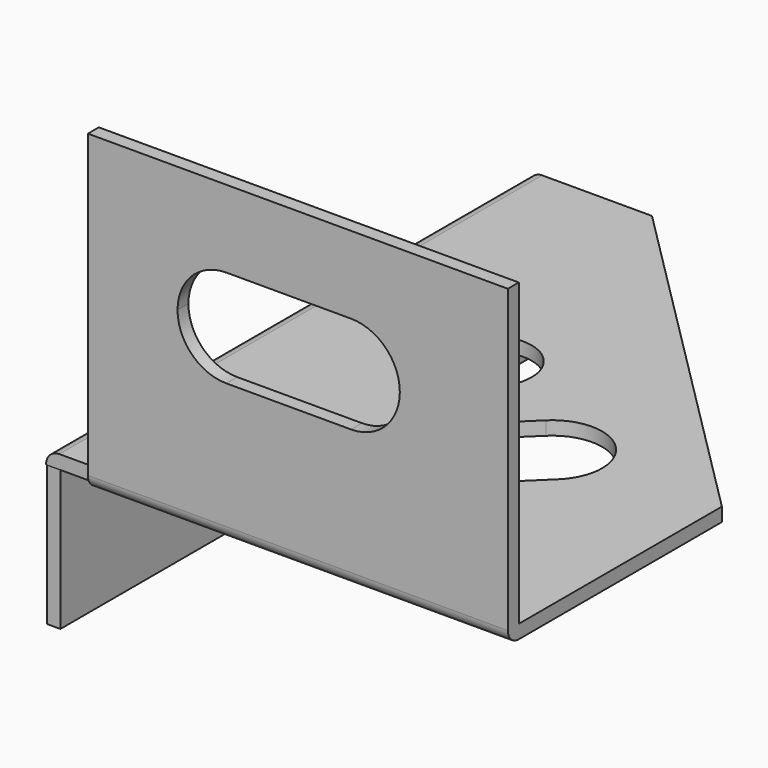
from build123d import *

# Parameters (mm, degrees)
F0_R      = 4.925
F1_DEPTH  = 1.55
F2_W      = 1.55
F2_H      = 68.6
F3_DEPTH  = 16
F4_W      = 47.8
F4_H      = 1.55
F5_DEPTH  = 1.55
F6_W      = 47.8
F6_H      = 1.55
F7_DEPTH  = 34.2
F8_R      = 1.5
F10_DEPTH = 1.551


with BuildPart() as f1:
    # F0 (on Top) → F1 (new body)
    with BuildSketch(Plane.XY):
        Polygon((-51.3558513849, 10.4234758295), (-51.3558513849, -58.2765241705), (2.4441486151, -58.2765241705), (2.4441486151, -29.3765241705), (-37.3558513849, 10.4234758295), align=None)
        with BuildLine():
            ThreePointArc((-27.6816260073, -49.4227633754), (-35.7418681063, -49.3109720316), (-35.6300767624, -41.2507299325))
            Line((-35.6300767624, -41.2507299325), (-20.1462239232, -26.190507449))
            ThreePointArc((-20.1462239232, -26.190507449), (-13.9542389387, -25.0256630672), (-10.4719985456, -30.2765241705))
            ThreePointArc((-10.4719985456, -30.2765241705), (-10.9211374423, -32.4942837773), (-12.197773168, -34.3625408919))
            Line((-12.197773168, -34.3625408919), (-27.6816260073, -49.4227633754))
        make_face(mode=Mode.SUBTRACT)
        with Locations((-31.2308513849, -20.5015241705)):
            Circle(F0_R, mode=Mode.SUBTRACT)
    extrude(amount=F1_DEPTH)

    # F2 (on face) → F3 (join)
    with BuildSketch(Plane(origin=(0, 0, 0), x_dir=(1, 0, 0), z_dir=(0, 0, -1))):
        with Locations((-50.5808513849, 23.8765241705)):
            Rectangle(F2_W, F2_H)
    extrude(amount=F3_DEPTH)

    # F4 (on face) → F5 (join)
    with BuildSketch(Plane.XY.offset(1.55)):
        with Locations((-21.4558513849, -59.0515241705)):
            Rectangle(F4_W, F4_H)
    extrude(amount=-F5_DEPTH)

    # F6 (on face) → F7 (join)
    with BuildSketch(Plane.XY.offset(1.55)):
        with Locations((-21.4558513849, -59.0515241705)):
            Rectangle(F6_W, F6_H)
    extrude(amount=F7_DEPTH)

    # F8
    f8_edges = [f1.edges().sort_by_distance(p)[0] for p in [
        (-21.455851, -59.826524, 0),
        (-51.355851, -23.926524, 1.55),
    ]]
    fillet(f8_edges, radius=F8_R)

    # F9 (on face) → F10 (cut, through all)
    with BuildSketch(Plane(origin=(0, -58.2765241705, 0), x_dir=(-1, 0, 0), z_dir=(0, 1, 0))):
        with BuildLine():
            ThreePointArc((15.4058513849, 15.85), (19.3302940204, 17.4755573644), (20.9558513849, 21.4))
            ThreePointArc((20.9558513849, 21.4), (19.3302940204, 25.3244426356), (15.4058513849, 26.95))
            ThreePointArc((15.4058513849, 26.95), (9.8558513849, 21.4), (15.4058513849, 15.85))
        make_face()
        with BuildLine():
            ThreePointArc((15.4058513849, 26.95), (19.3302940204, 25.3244426356), (20.9558513849, 21.4))
            ThreePointArc((20.9558513849, 21.4), (19.3302940204, 17.4755573644), (15.4058513849, 15.85))
            Line((15.4058513849, 15.85), (29.6058513849, 15.85))
            ThreePointArc((29.6058513849, 15.85), (24.0558513849, 21.4), (29.6058513849, 26.95))
            Line((29.6058513849, 26.95), (15.4058513849, 26.95))
        make_face()
        with BuildLine():
            ThreePointArc((35.1558513849, 21.4), (33.5302940204, 25.3244426356), (29.6058513849, 26.95))
            ThreePointArc((29.6058513849, 26.95), (24.0558513849, 21.4), (29.6058513849, 15.85))
            ThreePointArc((29.6058513849, 15.85), (33.5302940204, 17.4755573644), (35.1558513849, 21.4))
        make_face()
    extrude(amount=-F10_DEPTH, mode=Mode.SUBTRACT)


solid = f1.part
